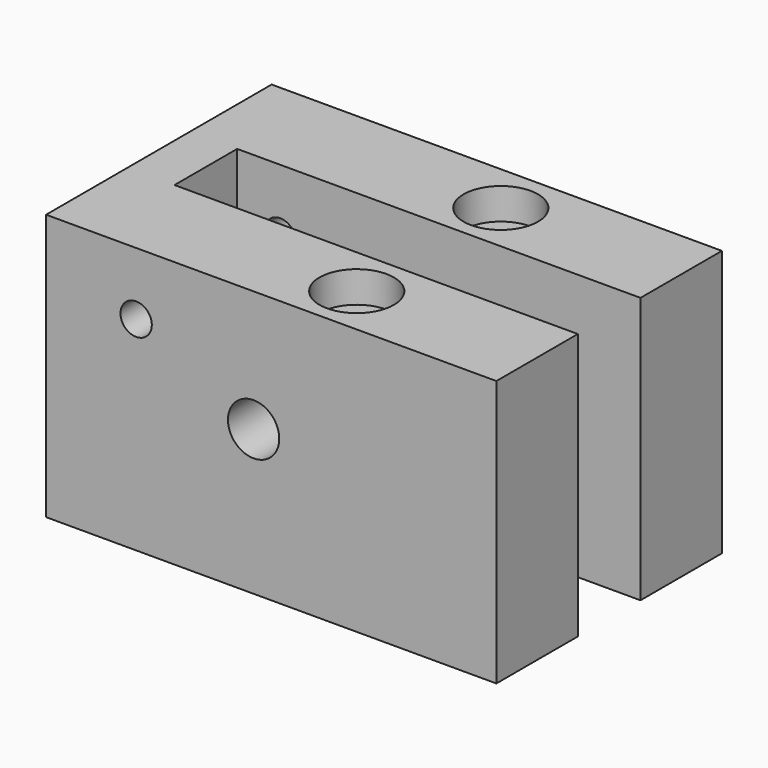
from build123d import *

# Parameters (mm, degrees)
F1_DEPTH       = 68
F3_D           = 8.5
F3_CBORE_D     = 19
F3_CBORE_DEPTH = 8
F5_D           = 13.1
F7_D           = 8


with BuildPart() as f1:
    # F0 (on Top) → F1 (new body)
    with BuildSketch(Plane.XY):
        Polygon((66.851603, 12.029409), (66.851603, 38.029409), (-48.148397, 38.029409), (-48.148397, -33.970591), (66.851603, -33.970591), (66.851603, -7.970591), (-36.148397, -7.970591), (-36.148397, 12.029409), align=None)
    extrude(amount=F1_DEPTH)

    # F3 (through all)
    with Locations(Plane.XY.offset(68)):
        with Locations((20.851603, 24.943848), (20.851603, -21.056152)):
            CounterBoreHole(F3_D / 2, F3_CBORE_D / 2, F3_CBORE_DEPTH)

    # F5 (through all)
    with Locations(Plane.XZ.offset(33.970591)):
        with Locations((4.851603, 37)):
            Hole(F5_D / 2)

    # F7 (through all)
    with Locations(Plane.XZ.offset(33.970591)):
        with Locations((-25.148397, 52)):
            Hole(F7_D / 2)


solid = f1.part
